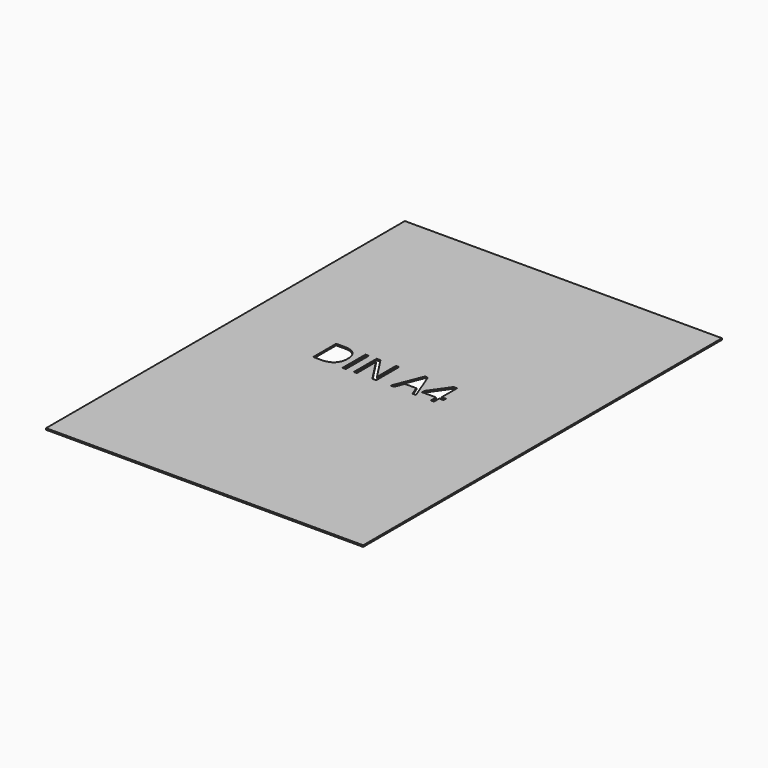
from build123d import *

# Parameters (mm, degrees)
F0_W     = 210
F0_H     = 297
F0_W_2   = 2.2109179881
F0_H_2   = 19.0238875475
F1_DEPTH = 1


with BuildPart() as f1:
    # F0 (on Top) → F1 (new body)
    with BuildSketch(Plane.XY):
        Rectangle(F0_W, F0_H)
        with BuildLine():
            add(Edge.make_bspline(
                [(-34.1734707151, 16.5652301615), (-31.714813329, 14.1065727754), (-31.714813329, 9.6930641739)],
                knots=[0, 0, 0, 1, 1, 1], degree=2))
            add(Edge.make_bspline(
                [(-31.714813329, 9.6930641739), (-31.714813329, 4.9839337698), (-34.271317368, 2.4919668849)],
                knots=[0, 0, 0, 1, 1, 1], degree=2))
            add(Edge.make_bspline(
                [(-34.271317368, 2.4919668849), (-36.827821407, 0), (-41.628552933, 0)],
                knots=[0, 0, 0, 1, 1, 1], degree=2))
            Line((-41.628552933, 0), (-46.8997811307, 0))
            Line((-46.8997811307, 0), (-46.8997811307, 19.0238875475))
            Line((-46.8997811307, 19.0238875475), (-41.0706188268, 19.0238875475))
            add(Edge.make_bspline(
                [(-41.0706188268, 19.0238875475), (-36.6321281011, 19.0238875475), (-34.1734707151, 16.5652301615)],
                knots=[0, 0, 0, 1, 1, 1], degree=2))
        make_face(mode=Mode.SUBTRACT)
        with Locations((-26.3665569152, 9.5119437738)):
            Rectangle(F0_W_2, F0_H_2, mode=Mode.SUBTRACT)
        with BuildLine():
            Line((-5.1837974715, 19.0238875475), (-5.1837974715, 0))
            Line((-5.1837974715, 0), (-7.7069920117, 0))
            Line((-7.7069920117, 0), (-18.1037193494, 15.963577338))
            Line((-18.1037193494, 15.963577338), (-18.2078115334, 15.963577338))
            add(Edge.make_bspline(
                [(-18.2078115334, 15.963577338), (-17.9996271654, 13.15308837), (-17.9996271654, 10.8130960737)],
                knots=[0, 0, 0, 1, 1, 1], degree=2))
            Line((-17.9996271654, 10.8130960737), (-17.9996271654, 0))
            Line((-17.9996271654, 0), (-20.0439976591, 0))
            Line((-20.0439976591, 0), (-20.0439976591, 19.0238875475))
            Line((-20.0439976591, 19.0238875475), (-17.5457852432, 19.0238875475))
            Line((-17.5457852432, 19.0238875475), (-7.1740400296, 3.1227655199))
            Line((-7.1740400296, 3.1227655199), (-7.0699478456, 3.1227655199))
            add(Edge.make_bspline(
                [(-7.0699478456, 3.1227655199), (-7.0949299698, 3.4725152582), (-7.1865310917, 5.379484069)],
                knots=[0, 0, 0, 1, 1, 1], degree=2))
            add(Edge.make_bspline(
                [(-7.1865310917, 5.379484069), (-7.2781322136, 7.2864528799), (-7.2531500894, 8.1066992898)],
                knots=[0, 0, 0, 1, 1, 1], degree=2))
            Line((-7.2531500894, 8.1066992898), (-7.2531500894, 19.0238875475))
            Line((-7.2531500894, 19.0238875475), (-5.1837974715, 19.0238875475))
        make_face(mode=Mode.SUBTRACT)
        Polygon((21.2181440778, 0), (18.9281160298, 0), (16.558977922, 6.049837734), (8.935266366, 6.049837734), (6.5952740697, 0), (4.3552102701, 0), (11.8748296421, 19.1029976074), (13.735997892, 19.1029976074), align=None, mode=Mode.SUBTRACT)
        Polygon((35.9201241457, 6.3371321618), (35.9201241457, 4.3718717279), (33.0971441156, 4.3718717279), (33.0971441156, 0), (31.0277914978, 0), (31.0277914978, 4.3718717279), (21.776078184, 4.3718717279), (21.776078184, 6.258022102), (30.8071160677, 19.1279797315), (33.0971441156, 19.1279797315), (33.0971441156, 6.3371321618), align=None, mode=Mode.SUBTRACT)
    extrude(amount=F1_DEPTH)


solid = f1.part
